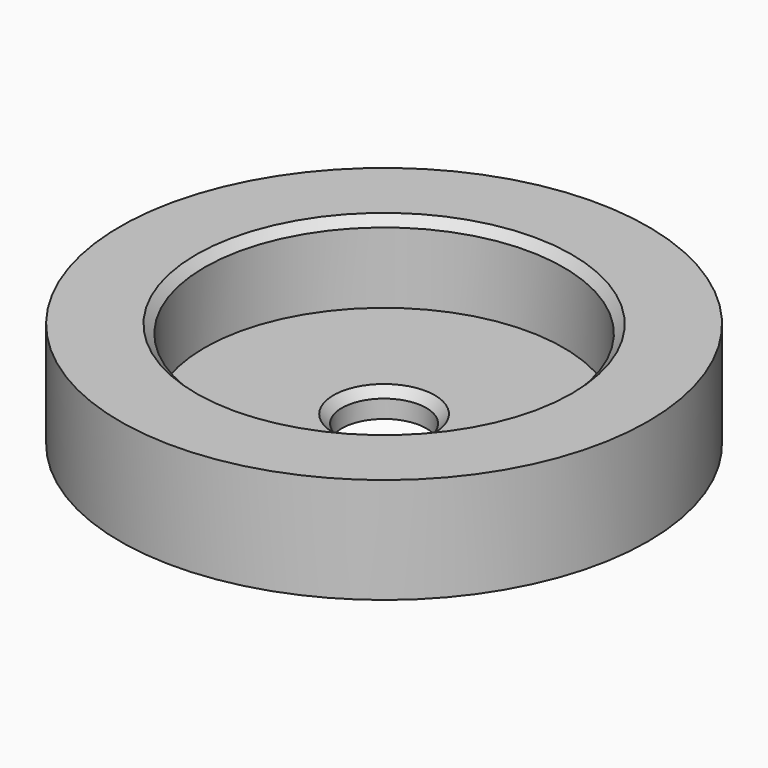
from build123d import *

# Parameters (mm, degrees)
F0_R     = 15.875
F0_R_2   = 2.54
F1_DEPTH = 1.5875
F2_R     = 15.875
F2_R_2   = 10.795
F3_DEPTH = 4.7625
F4_SIZE  = 0.508


with BuildPart() as f1:
    # F0 (on Top) → F1 (new body)
    with BuildSketch(Plane.XY):
        Circle(F0_R)
        Circle(F0_R_2, mode=Mode.SUBTRACT)
    extrude(amount=F1_DEPTH)

    # F2 (on face) → F3 (join)
    with BuildSketch(Plane.XY.offset(1.5875)):
        Circle(F2_R)
        Circle(F2_R_2, mode=Mode.SUBTRACT)
    extrude(amount=F3_DEPTH)

    # F4
    f4_edges = [f1.edges().sort_by_distance(p)[0] for p in [
        (-10.795, 0, 6.35),
        (-2.54, 0, 1.5875),
    ]]
    chamfer(f4_edges, length=F4_SIZE)


solid = f1.part
